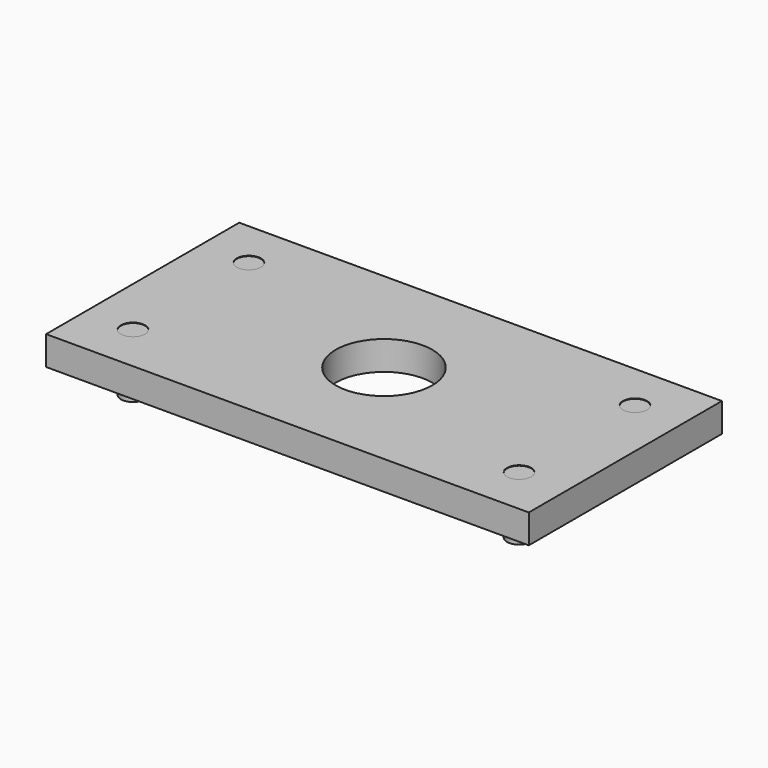
from build123d import *

# Parameters (mm, degrees)
F0_W     = 100
F0_H     = 50
F0_R     = 10
F0_W_2   = 10
F0_H_2   = 10
F0_R_2   = 2.5
F1_DEPTH = 6
F2_DEPTH = 5.9


with BuildPart() as f1:
    # F0 (on Top) → F1 (new body)
    with BuildSketch(Plane.XY):
        Rectangle(F0_W, F0_H)
        Polygon((-35, -20), (-45, -20), (-45, -10), (-45, 10), (-45, 20), (-35, 20), (35, 20), (45, 20), (45, 10), (45, -10), (45, -20), (35, -20), align=None, mode=Mode.SUBTRACT)
        Polygon((-35, -10), (-35, -20), (35, -20), (35, -10), (45, -10), (45, 10), (35, 10), (35, 20), (-35, 20), (-35, 10), (-45, 10), (-45, -10), align=None)
        Circle(F0_R, mode=Mode.SUBTRACT)
        with Locations((-40, -15)):
            Rectangle(F0_W_2, F0_H_2)
        with Locations((-40, -15)):
            Circle(F0_R_2, mode=Mode.SUBTRACT)
        with Locations((-40, 15)):
            Rectangle(F0_W_2, F0_H_2)
        with Locations((-40, 15)):
            Circle(F0_R_2, mode=Mode.SUBTRACT)
        with Locations((40, -15)):
            Rectangle(F0_W_2, F0_H_2)
        with Locations((40, -15)):
            Circle(F0_R_2, mode=Mode.SUBTRACT)
        with Locations((40, 15)):
            Rectangle(F0_W_2, F0_H_2)
        with Locations((40, 15)):
            Circle(F0_R_2, mode=Mode.SUBTRACT)
    extrude(amount=F1_DEPTH)

    # F0 (on Top) → F2 (join, symmetric)
    with BuildSketch(Plane.XY):
        with Locations((-40, -15)):
            Circle(F0_R_2)
        with Locations((40, 15)):
            Circle(F0_R_2)
        with Locations((-40, 15)):
            Circle(F0_R_2)
        with Locations((40, -15)):
            Circle(F0_R_2)
    extrude(amount=F2_DEPTH, both=True)


solid = f1.part
